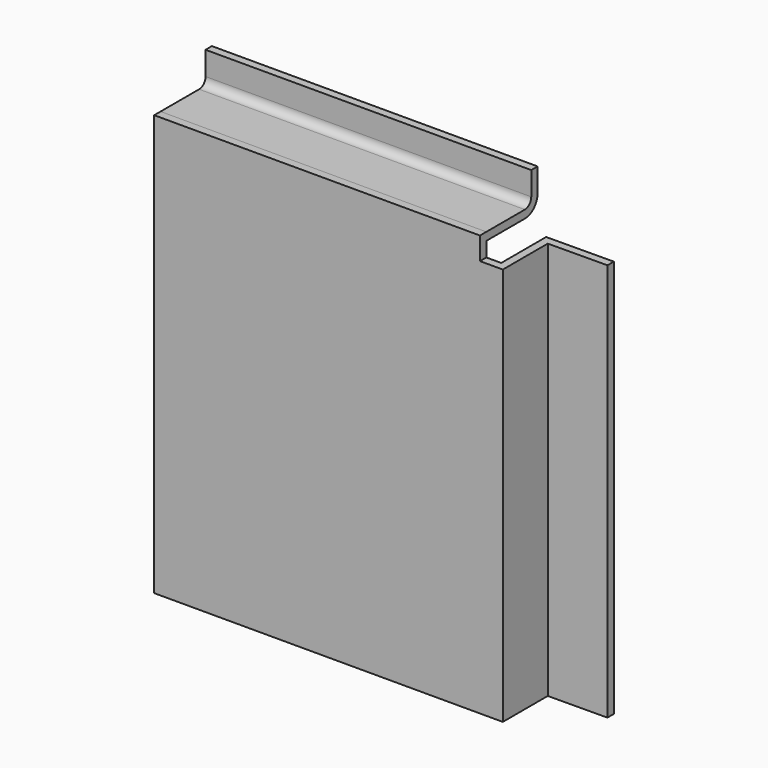
from build123d import *

# Parameters (mm, degrees)
F1_DEPTH = 25
F2_W     = 40.895786
F2_H     = 2.828645
F3_DEPTH = 1
F5_DEPTH = 40.895786
F6_R     = 1
F7_R     = 2


with BuildPart() as f1:
    # F0 (on Top) → F1 (new body, symmetric)
    with BuildSketch(Plane.XY):
        Polygon((42.765886, 0), (0, 0), (0, -1), (43.765886, -1), (43.765886, 6.060815), (51.214214, 6.117835), (51.206559, 7.117806), (42.765886, 7.053189), align=None)
    extrude(amount=F1_DEPTH, both=True)

    # F2 (on face) → F3 (join, through all)
    with BuildSketch(Plane(origin=(0, 0, 0), x_dir=(-1, 0, 0), z_dir=(0, 1, 0))):
        with Locations((-20.447893, 26.414322)):
            Rectangle(F2_W, F2_H)
    extrude(amount=-F3_DEPTH)

    # F4 (on face) → F5 (join, through all)
    with BuildSketch(Plane.YZ.offset(40.895786)):
        Polygon((7.053189, 27.828645), (0, 27.828645), (0, 26.828645), (8.053189, 26.828645), (8.053189, 31.7876), (7.053189, 31.7876), align=None)
    extrude(amount=-F5_DEPTH)

    # F6
    f6_edges = [f1.edges().sort_by_distance(p)[0] for p in [
        (20.447893, 7.053189, 27.828645),
    ]]
    fillet(f6_edges, radius=F6_R)

    # F7
    f7_edges = [f1.edges().sort_by_distance(p)[0] for p in [
        (20.447893, 8.053189, 26.828645),
    ]]
    fillet(f7_edges, radius=F7_R)


solid = f1.part
